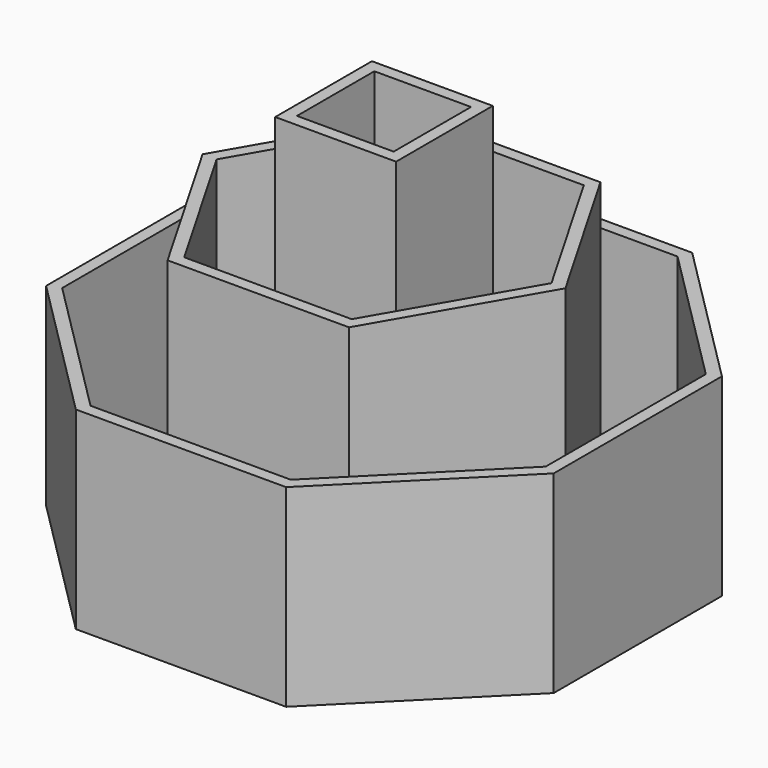
from build123d import *

# Parameters (mm, degrees)
F0_W     = 381
F0_H     = 381
F0_W_2   = 304.8
F0_H_2   = 304.8
F1_DEPTH = 30.48
F2_DEPTH = 1219.2
F3_DEPTH = 914.4
F4_DEPTH = 609.6


with BuildPart() as f1:
    # F0 (on Top) → F1 (new body)
    with BuildSketch(Plane.XY):
        Polygon((-315.630735, -762), (315.630735, -762), (762, -315.630735), (762, 315.630735), (315.630735, 762), (-315.630735, 762), (-762, 315.630735), (-762, -315.630735), align=None)
        Polygon((571.923177, 0), (285.961588, -495.3), (-285.961588, -495.3), (-571.923177, 0), (-285.961588, 495.3), (285.961588, 495.3), align=None, mode=Mode.SUBTRACT)
        Polygon((-263.964543, -457.2), (263.964543, -457.2), (527.929086, 0), (263.964543, 457.2), (-263.964543, 457.2), (-527.929086, 0), align=None)
        Rectangle(F0_W, F0_H, mode=Mode.SUBTRACT)
        Rectangle(F0_W_2, F0_H_2)
    extrude(amount=F1_DEPTH)

    # F0 (on Top) → F4 (join)
    with BuildSketch(Plane.XY):
        Polygon((-331.412271, -800.1), (331.412271, -800.1), (800.1, -331.412271), (800.1, 331.412271), (331.412271, 800.1), (-331.412271, 800.1), (-800.1, 331.412271), (-800.1, -331.412271), align=None)
        Polygon((762, -315.630735), (315.630735, -762), (-315.630735, -762), (-762, -315.630735), (-762, 315.630735), (-315.630735, 762), (315.630735, 762), (762, 315.630735), align=None, mode=Mode.SUBTRACT)
    extrude(amount=F4_DEPTH)


with BuildPart() as f2:
    # F0 (on Top) → F2 (new body)
    with BuildSketch(Plane.XY):
        Rectangle(F0_W, F0_H)
        Rectangle(F0_W_2, F0_H_2, mode=Mode.SUBTRACT)
    extrude(amount=F2_DEPTH)


with BuildPart() as f3:
    # F0 (on Top) → F3 (new body)
    with BuildSketch(Plane.XY):
        Polygon((-285.961588, -495.3), (285.961588, -495.3), (571.923177, 0), (285.961588, 495.3), (-285.961588, 495.3), (-571.923177, 0), align=None)
        Polygon((527.929086, 0), (263.964543, -457.2), (-263.964543, -457.2), (-527.929086, 0), (-263.964543, 457.2), (263.964543, 457.2), align=None, mode=Mode.SUBTRACT)
    extrude(amount=F3_DEPTH)


solid = Compound([f1.part, f2.part, f3.part])
